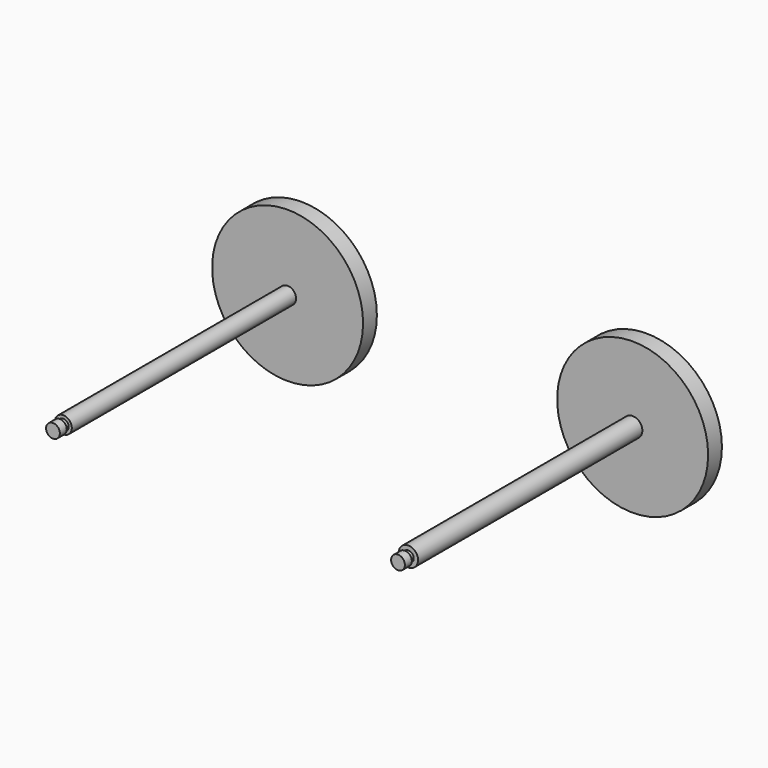
from build123d import *

# Parameters (mm, degrees)
F0_R     = 2.497732
F0_R_2   = 2.8575
F1_DEPTH = 82.55
F2_R     = 22.225
F3_DEPTH = 5.08
F4_R     = 1.5875
F5_DEPTH = 83.82
F6_R     = 2.032
F7_DEPTH = 2.54
F8_R     = 2.032
F9_DEPTH = 2.54


with BuildPart() as f1:
    # F0 (on Front) → F1 (new body)
    with BuildSketch(Plane.XZ):
        with Locations((-90.161685, 10.26882)):
            Circle(F0_R)
        with Locations((11.438315, 9.185153)):
            Circle(F0_R_2)
    extrude(amount=F1_DEPTH)


with BuildPart() as f3:
    # F2 (on Front) → F3 (new body)
    with BuildSketch(Plane.XZ):
        with Locations((11.438315, 9.185153)):
            Circle(F2_R)
        with Locations((-90.161685, 10.26882)):
            Circle(F2_R)
    extrude(amount=-F3_DEPTH)


with BuildPart() as f5:
    # F4 (on Front) → F5 (new body)
    with BuildSketch(Plane.XZ):
        with Locations((-90.161685, 10.26882)):
            Circle(F4_R)
        with Locations((11.438315, 9.185153)):
            Circle(F4_R)
    extrude(amount=F5_DEPTH)

    # F6 (on face) → F7 (join)
    with BuildSketch(Plane.XZ.offset(83.82)):
        with Locations((-90.161685, 10.26882)):
            Circle(F6_R)
    extrude(amount=F7_DEPTH)

    # F8 (on face) → F9 (join)
    with BuildSketch(Plane.XZ.offset(83.82)):
        with Locations((11.438315, 9.185153)):
            Circle(F8_R)
    extrude(amount=F9_DEPTH)


solid = Compound([f1.part, f3.part, f5.part])
